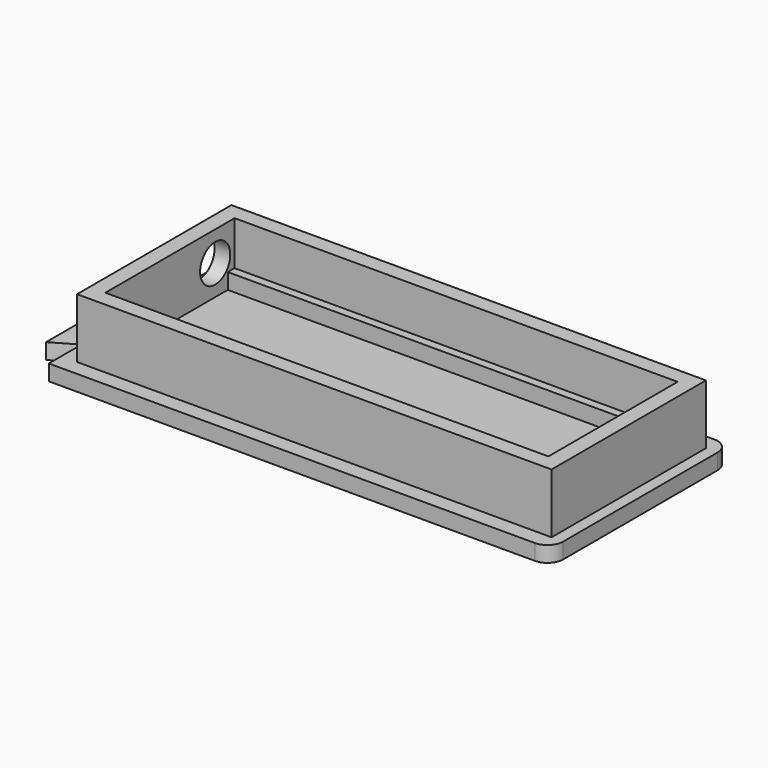
from build123d import *

# Parameters (mm, degrees)
SKETCH048_W     = 70.5
SKETCH048_H     = 25.7
PAD041_DEPTH    = 9.5
THICKNESS005_T  = 2.5
SKETCH049_R     = 3
POCKET011_DEPTH = 2.5
SKETCH050_W     = 70.5
SKETCH050_H     = 1.5
PAD042_DEPTH    = 2.5
PAD040_DEPTH    = 2.5


with BuildPart() as body014:
    # Sketch048 → Pad041 (new body)
    with BuildSketch(Plane.XY):
        with Locations((0, -48)):
            Rectangle(SKETCH048_W, SKETCH048_H)
    extrude(amount=PAD041_DEPTH)

    # Thickness005
    thickness005_openings = [body014.faces().sort_by_distance(p)[0] for p in [
        (0, -48, 9.5),
        (0, -48, 0),
    ]]
    offset(amount=THICKNESS005_T, openings=thickness005_openings, kind=Kind.INTERSECTION)

    # Sketch049 (on Face6 of Thickness005) → Pocket011 (cut)
    with BuildSketch(Plane(origin=(-37.75, 0, 0), x_dir=(0, -1, 0), z_dir=(-1, 0, 0))):
        with Locations((39, 4.75)):
            Circle(SKETCH049_R)
    extrude(amount=-POCKET011_DEPTH, mode=Mode.SUBTRACT)

    # Sketch050 → Pad042 (join)
    with BuildSketch(Plane.XY):
        with Locations((0, -35.75)):
            Rectangle(SKETCH050_W, SKETCH050_H)
    extrude(amount=PAD042_DEPTH)


with BuildPart() as body014_1:
    # Body014 placement: moved
    add(body014.part.moved(Location((84.5, 36.85, 0))))


with BuildPart() as tail:
    # Sketch047 → Pad040 (new body)
    with BuildSketch(Plane(origin=(0, 0, 0), x_dir=(1, 0, 0), z_dir=(0, 0, -1))):
        with BuildLine():
            Line((-40.250166, 30.15), (37.1, 30.15))
            ThreePointArc((37.1, 30.15), (38.867767, 30.882233), (39.6, 32.65))
            Line((39.6, 63.35), (39.6, 32.65))
            ThreePointArc((39.6, 63.35), (38.867767, 65.117767), (37.1, 65.85))
            Line((37.1, 65.85), (-40.25, 65.85))
            Line((-40.25, 65.85), (-40.25, 59.35))
            Line((-40.25, 59.35), (-44.1, 61.572799))
            Line((-44.1, 61.572799), (-44.1, 51.292346))
            Line((-44.1, 51.292346), (-40.25, 53.515144))
            Line((-40.25, 53.515144), (-40.25, 42.485144))
            Line((-40.25, 42.485144), (-44.100166, 44.707654))
            Line((-44.100166, 44.707654), (-44.100166, 34.427201))
            Line((-44.100166, 34.427201), (-40.250166, 36.65))
            Line((-40.250166, 36.65), (-40.250166, 30.15))
        make_face()
    extrude(amount=PAD040_DEPTH)


with BuildPart() as tail_1:
    # Body013 placement: moved
    add(tail.part.moved(Location((84.5, 36.85, 0))))

    # Fusion004: union Body014
    add(body014_1.part)


with BuildPart() as tail_2:
    # Fusion004 placement: moved
    add(tail_1.part.moved(Location((84.5, 0, 0))))


solid = tail_2.part
